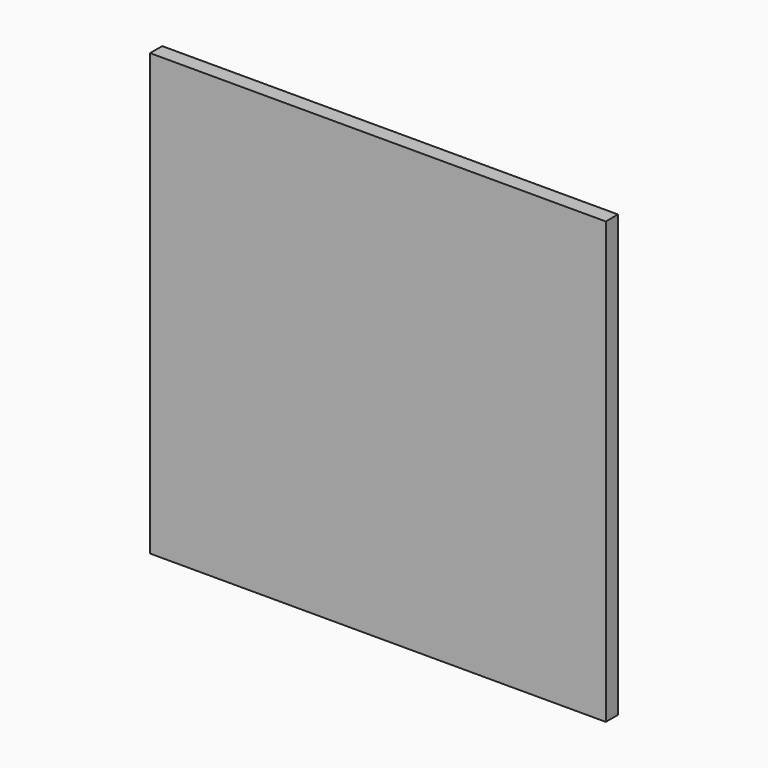
from build123d import *

# Parameters (mm, degrees)
BOX_W     = 150
BOX_H     = 5
BOX_DEPTH = 145


with BuildPart() as part:
    # Box → Box (new body)
    with BuildSketch(Plane.XY):
        with Locations((75, 2.5)):
            Rectangle(BOX_W, BOX_H)
    extrude(amount=BOX_DEPTH)


solid = part.part
